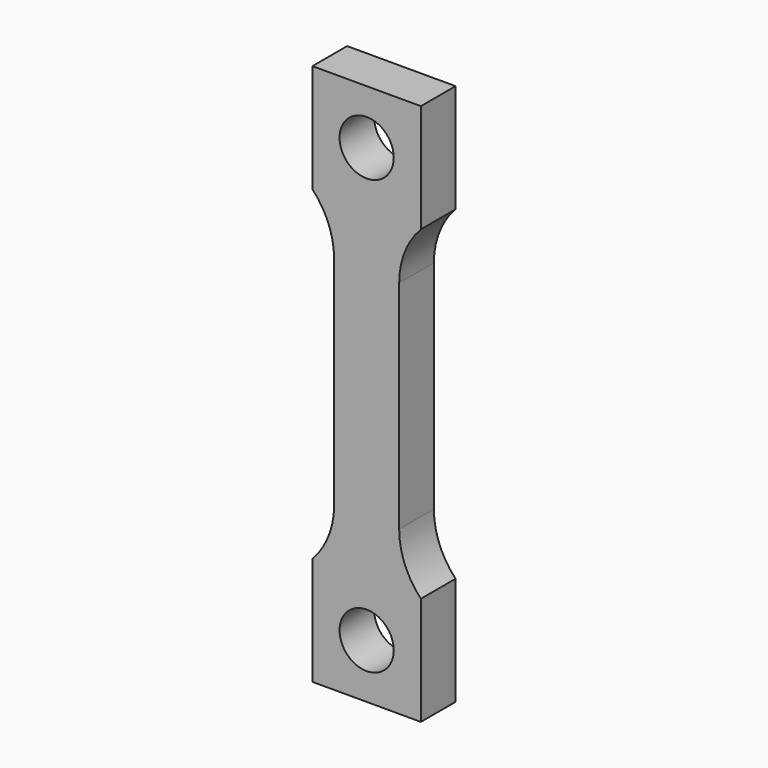
from build123d import *

# Parameters (mm, degrees)
F0_R     = 1.25
F1_DEPTH = 1


with BuildPart() as f1:
    # F0 (on Front) → F1 (new body, symmetric)
    with BuildSketch(Plane.XZ):
        with BuildLine():
            Line((1.5, -5), (1.5, 0))
            Line((1.5, 0), (1.5, 5))
            ThreePointArc((1.5, 5), (1.7592719955, 6.3462912018), (2.5, 7.5))
            Line((2.5, 7.5), (2.5, 12.5))
            Line((2.5, 12.5), (0, 12.5))
            Line((0, 12.5), (-2.5, 12.5))
            Line((-2.5, 12.5), (-2.5, 7.5))
            ThreePointArc((-2.5, 7.5), (-1.7592719955, 6.3462912018), (-1.5, 5))
            Line((-1.5, 5), (-1.5, 0))
            Line((-1.5, 0), (-1.5, -5))
            ThreePointArc((-1.5, -5), (-1.7592719955, -6.3462912018), (-2.5, -7.5))
            Line((-2.5, -7.5), (-2.5, -12.5))
            Line((-2.5, -12.5), (0, -12.5))
            Line((0, -12.5), (2.5, -12.5))
            Line((2.5, -12.5), (2.5, -7.5))
            ThreePointArc((2.5, -7.5), (1.7592719955, -6.3462912018), (1.5, -5))
        make_face()
        with Locations((0, -10)):
            Circle(F0_R, mode=Mode.SUBTRACT)
        with Locations((0, 10)):
            Circle(F0_R, mode=Mode.SUBTRACT)
    extrude(amount=F1_DEPTH, both=True)


solid = f1.part
